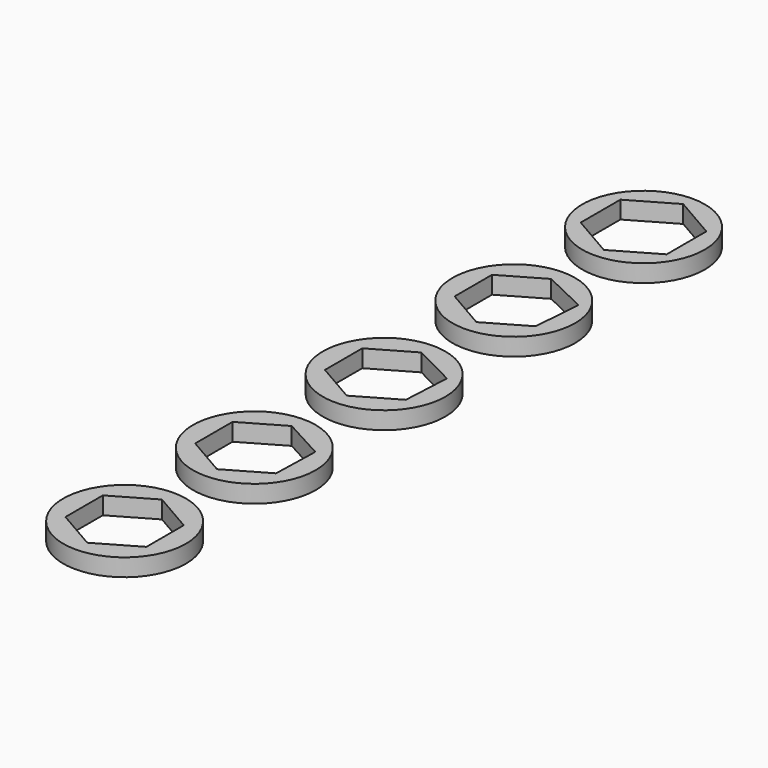
from build123d import *

# Parameters (mm, degrees)
F0_R     = 10.5
F1_DEPTH = 3


with BuildPart() as f1:
    # F0 (on Top) → F1 (new body)
    with BuildSketch(Plane.XY):
        with Locations((0, 53.886674)):
            Circle(F0_R)
        Polygon((-7.361216, 58.136674), (0, 62.386674), (7.361216, 58.136674), (7.361216, 49.636674), (0, 45.386674), (-7.361216, 49.636674), align=None, mode=Mode.SUBTRACT)
        with Locations((-0.243099, 26.425235)):
            Circle(F0_R)
        Polygon((-7.171302, 30.425235), (-0.243099, 34.425235), (7.334623, 30.800235), (6.685104, 22.425235), (-0.243099, 18.425235), (-7.171302, 22.425235), align=None, mode=Mode.SUBTRACT)
        with Locations((-0.486198, -1.036205)):
            Circle(F0_R)
        Polygon((-7.414401, 2.963795), (-0.486198, 6.963795), (6.875018, 3.213795), (6.442005, -5.036205), (-0.486198, -9.036205), (-7.414401, -5.036205), align=None, mode=Mode.SUBTRACT)
        with Locations((-0.729297, -28.497644)):
            Circle(F0_R)
        Polygon((-7.6575, -24.497644), (-0.729297, -20.497644), (6.415413, -24.372644), (6.198906, -32.497644), (-0.729297, -36.497644), (-7.6575, -32.497644), align=None, mode=Mode.SUBTRACT)
        with Locations((-0.972396, -55.959084)):
            Circle(F0_R)
        Polygon((-7.900599, -51.959084), (-0.972396, -47.959084), (5.955807, -51.959084), (5.955807, -59.959084), (-0.972396, -63.959084), (-7.900599, -59.959084), align=None, mode=Mode.SUBTRACT)
    extrude(amount=F1_DEPTH)


solid = f1.part
